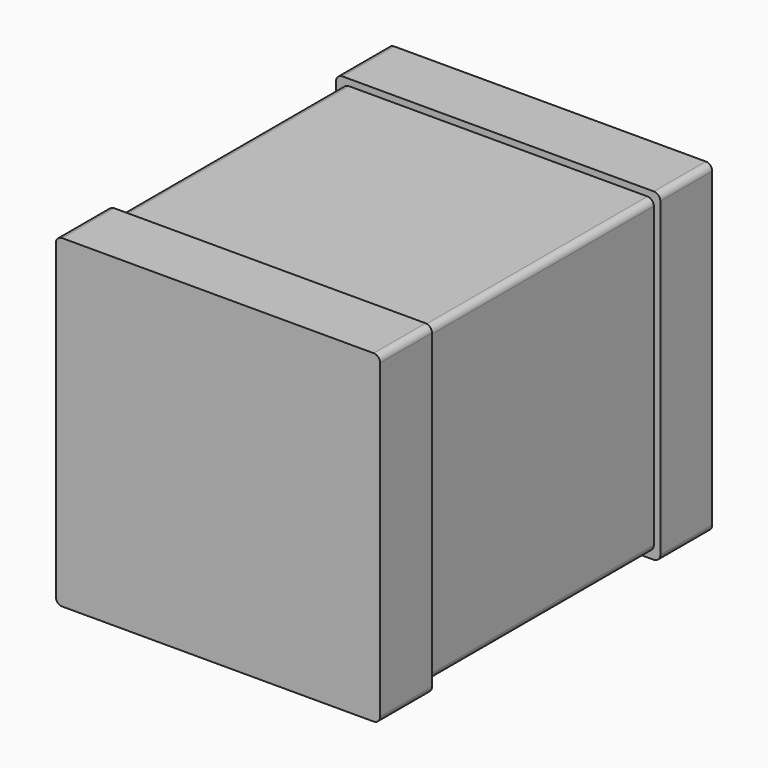
from build123d import *

# Parameters (mm, degrees)
F0_W     = 2.5
F0_H     = 2.5
F1_DEPTH = 0.5
F2_W     = 2.4
F2_H     = 2.4
F3_DEPTH = 2.2
F4_W     = 2.5
F4_H     = 2.5
F5_DEPTH = 0.5
F6_R     = 0.05
F6_2_R   = 0.05
F6_3_R   = 0.05


with BuildPart() as f1:
    # F0 (on Front) → F1 (new body)
    with BuildSketch(Plane.XZ):
        Rectangle(F0_W, F0_H)
    extrude(amount=F1_DEPTH)

    # F6#2
    f6_2_edges = [f1.edges().sort_by_distance(p)[0] for p in [
        (1.25, -0.25, 1.25),
        (1.25, -0.25, -1.25),
        (-1.25, -0.25, 1.25),
        (-1.25, -0.25, -1.25),
    ]]
    fillet(f6_2_edges, radius=F6_2_R)


with BuildPart() as f3:
    # F2 (on face) → F3 (new body)
    with BuildSketch(Plane.XZ.offset(0.5)):
        Rectangle(F2_W, F2_H)
    extrude(amount=F3_DEPTH)

    # F6#3
    f6_3_edges = [f3.edges().sort_by_distance(p)[0] for p in [
        (1.2, -1.6, 1.2),
        (-1.2, -1.6, 1.2),
        (1.2, -1.6, -1.2),
        (-1.2, -1.6, -1.2),
    ]]
    fillet(f6_3_edges, radius=F6_3_R)


with BuildPart() as f5:
    # F4 (on face) → F5 (new body)
    with BuildSketch(Plane.XZ.offset(2.7)):
        Rectangle(F4_W, F4_H)
    extrude(amount=F5_DEPTH)

    # F6
    f6_edges = [f5.edges().sort_by_distance(p)[0] for p in [
        (1.25, -2.95, 1.25),
        (1.25, -2.95, -1.25),
        (-1.25, -2.95, 1.25),
        (-1.25, -2.95, -1.25),
    ]]
    fillet(f6_edges, radius=F6_R)


solid = Compound([f1.part, f3.part, f5.part])
